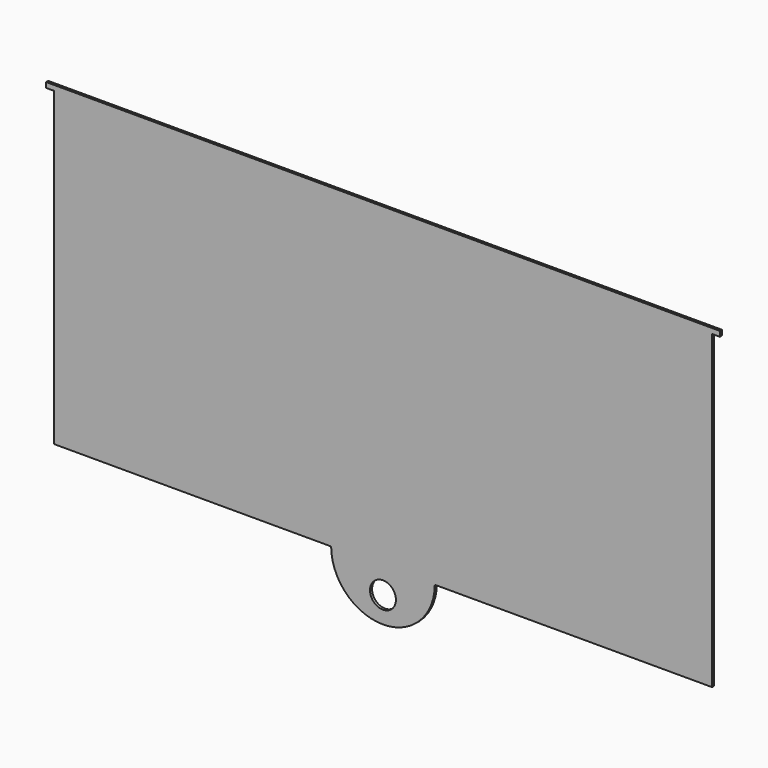
from build123d import *

# Parameters (mm, degrees)
F0_R     = 5
F1_DEPTH = 1


with BuildPart() as f1:
    # F0 (on Front) → F1 (new body)
    with BuildSketch(Plane.XZ):
        with BuildLine():
            Line((-130, 120), (-127, 120))
            Line((-127, 120), (-127, 0))
            Line((-127, 0), (-20, 0))
            ThreePointArc((-20, 0), (0, -20), (20, 0))
            Line((20, 0), (127, 0))
            Line((127, 0), (127, 120))
            Line((127, 120), (130, 120))
            Line((130, 120), (130, 122))
            Line((130, 122), (-130, 122))
            Line((-130, 122), (-130, 120))
        make_face()
        with Locations((0, -10)):
            Circle(F0_R, mode=Mode.SUBTRACT)
    extrude(amount=F1_DEPTH)


solid = f1.part
